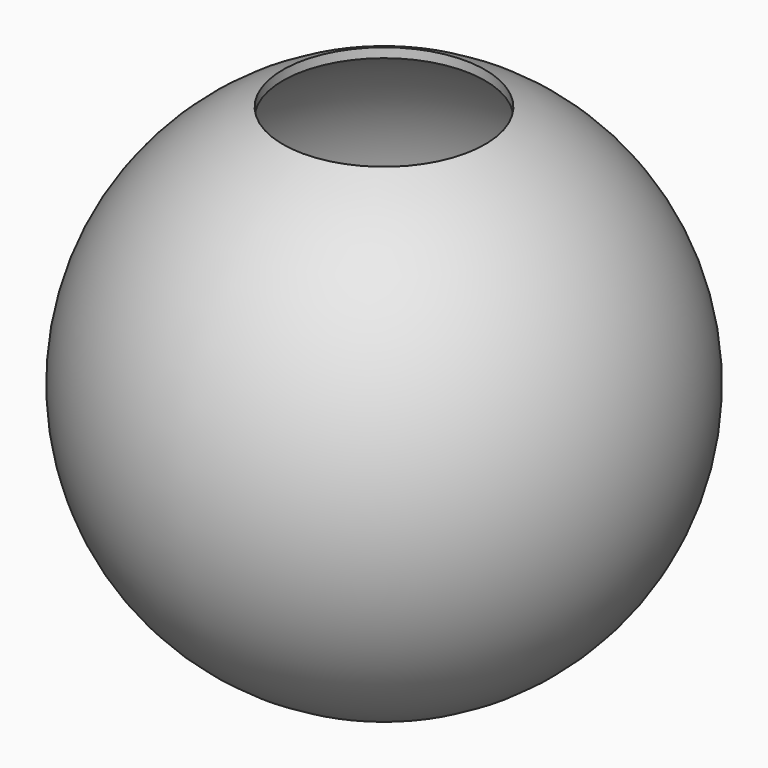
from build123d import *


with BuildPart() as f2:
    # F0 (on Right) → F2 (revolve)
    with BuildSketch(Plane.YZ):
        with BuildLine():
            Line((-11.489125, 26.627054), (-11.489125, 27.712813))
            ThreePointArc((-11.489125, 27.712813), (-30, 0), (-11.489125, -27.712813))
            Line((-11.489125, -27.712813), (-8.544004, -27.712813))
            ThreePointArc((-8.544004, -27.712813), (-10.031265, -27.209809), (-11.489125, -26.627054))
            ThreePointArc((-11.489125, -26.627054), (-29, 0), (-11.489125, 26.627054))
        make_face()
    revolve(axis=Axis((0, 0, 5), (0, 0, 1)))


solid = f2.part
